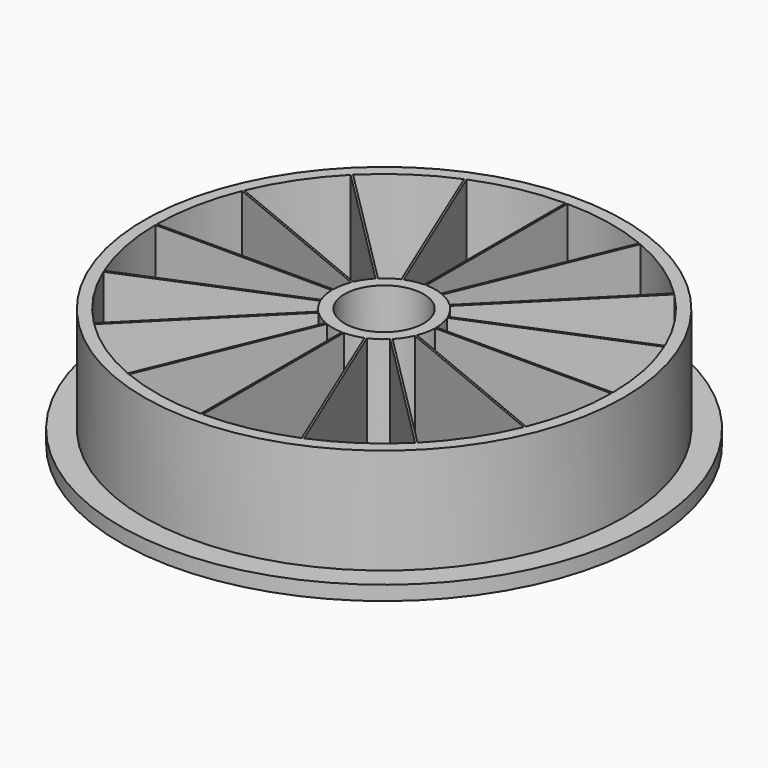
from build123d import *

# Parameters (mm, degrees)
F0_R     = 50
F0_R_2   = 8.25
F1_DEPTH = 22
F2_R     = 55
F3_DEPTH = 3


with BuildPart() as f1:
    # F0 (on Top) → F1 (new body)
    with BuildSketch(Plane.XY):
        Circle(F0_R)
        with BuildLine():
            Line((-33.445853, -33.728696), (-7.458661, -7.741504))
            ThreePointArc((-7.458661, -7.741504), (-5.97238, -8.938298), (-4.297911, -9.853449))
            Line((-4.297911, -9.853449), (-18.362078, -43.807352))
            ThreePointArc((-18.362078, -43.807352), (-26.389586, -39.494807), (-33.445853, -33.728696))
        make_face(mode=Mode.SUBTRACT)
        with BuildLine():
            ThreePointArc((-3.928359, -10.006523), (-2.097221, -10.543442), (-0.2, -10.748139))
            Line((-0.2, -10.748139), (-0.2, -47.499579))
            ThreePointArc((-0.2, -47.499579), (-9.26679, -46.587301), (-17.992526, -43.960425))
            Line((-17.992526, -43.960425), (-3.928359, -10.006523))
        make_face(mode=Mode.SUBTRACT)
        with BuildLine():
            ThreePointArc((-9.853449, -4.297911), (-8.938298, -5.97238), (-7.741504, -7.458661))
            Line((-7.741504, -7.458661), (-33.728696, -33.445853))
            ThreePointArc((-33.728696, -33.445853), (-39.494807, -26.389586), (-43.807352, -18.362078))
            Line((-43.807352, -18.362078), (-9.853449, -4.297911))
        make_face(mode=Mode.SUBTRACT)
        with BuildLine():
            Line((-47.499579, -0.2), (-10.748139, -0.2))
            ThreePointArc((-10.748139, -0.2), (-10.543442, -2.097221), (-10.006523, -3.928359))
            Line((-10.006523, -3.928359), (-43.960425, -17.992526))
            ThreePointArc((-43.960425, -17.992526), (-46.587301, -9.26679), (-47.499579, -0.2))
        make_face(mode=Mode.SUBTRACT)
        with BuildLine():
            Line((0.2, -47.499579), (0.2, -10.748139))
            ThreePointArc((0.2, -10.748139), (2.097221, -10.543442), (3.928359, -10.006523))
            Line((3.928359, -10.006523), (17.992526, -43.960425))
            ThreePointArc((17.992526, -43.960425), (9.26679, -46.587301), (0.2, -47.499579))
        make_face(mode=Mode.SUBTRACT)
        with BuildLine():
            ThreePointArc((4.297911, -9.853449), (5.97238, -8.938298), (7.458661, -7.741504))
            Line((7.458661, -7.741504), (33.445853, -33.728696))
            ThreePointArc((33.445853, -33.728696), (26.389586, -39.494807), (18.362078, -43.807352))
            Line((18.362078, -43.807352), (4.297911, -9.853449))
        make_face(mode=Mode.SUBTRACT)
        with BuildLine():
            Line((33.728696, -33.445853), (7.741504, -7.458661))
            ThreePointArc((7.741504, -7.458661), (8.938298, -5.97238), (9.853449, -4.297911))
            Line((9.853449, -4.297911), (43.807352, -18.362078))
            ThreePointArc((43.807352, -18.362078), (39.494807, -26.389586), (33.728696, -33.445853))
        make_face(mode=Mode.SUBTRACT)
        with BuildLine():
            ThreePointArc((10.006523, -3.928359), (10.543442, -2.097221), (10.748139, -0.2))
            Line((10.748139, -0.2), (47.499579, -0.2))
            ThreePointArc((47.499579, -0.2), (46.587301, -9.26679), (43.960425, -17.992526))
            Line((43.960425, -17.992526), (10.006523, -3.928359))
        make_face(mode=Mode.SUBTRACT)
        with BuildLine():
            ThreePointArc((-10.006523, 3.928359), (-10.543442, 2.097221), (-10.748139, 0.2))
            Line((-10.748139, 0.2), (-47.499579, 0.2))
            ThreePointArc((-47.499579, 0.2), (-46.587301, 9.26679), (-43.960425, 17.992526))
            Line((-43.960425, 17.992526), (-10.006523, 3.928359))
        make_face(mode=Mode.SUBTRACT)
        with BuildLine():
            Line((-33.728696, 33.445853), (-7.741504, 7.458661))
            ThreePointArc((-7.741504, 7.458661), (-8.938298, 5.97238), (-9.853449, 4.297911))
            Line((-9.853449, 4.297911), (-43.807352, 18.362078))
            ThreePointArc((-43.807352, 18.362078), (-39.494807, 26.389586), (-33.728696, 33.445853))
        make_face(mode=Mode.SUBTRACT)
        with BuildLine():
            ThreePointArc((-4.297911, 9.853449), (-5.97238, 8.938298), (-7.458661, 7.741504))
            Line((-7.458661, 7.741504), (-33.445853, 33.728696))
            ThreePointArc((-33.445853, 33.728696), (-26.389586, 39.494807), (-18.362078, 43.807352))
            Line((-18.362078, 43.807352), (-4.297911, 9.853449))
        make_face(mode=Mode.SUBTRACT)
        with BuildLine():
            ThreePointArc((-17.992526, 43.960425), (-9.26679, 46.587301), (-0.2, 47.499579))
            Line((-0.2, 47.499579), (-0.2, 10.748139))
            ThreePointArc((-0.2, 10.748139), (-2.097221, 10.543442), (-3.928359, 10.006523))
            Line((-3.928359, 10.006523), (-17.992526, 43.960425))
        make_face(mode=Mode.SUBTRACT)
        Circle(F0_R_2, mode=Mode.SUBTRACT)
        with BuildLine():
            Line((47.499579, 0.2), (10.748139, 0.2))
            ThreePointArc((10.748139, 0.2), (10.543442, 2.097221), (10.006523, 3.928359))
            Line((10.006523, 3.928359), (43.960425, 17.992526))
            ThreePointArc((43.960425, 17.992526), (46.587301, 9.26679), (47.499579, 0.2))
        make_face(mode=Mode.SUBTRACT)
        with BuildLine():
            ThreePointArc((9.853449, 4.297911), (8.938298, 5.97238), (7.741504, 7.458661))
            Line((7.741504, 7.458661), (33.728696, 33.445853))
            ThreePointArc((33.728696, 33.445853), (39.494807, 26.389586), (43.807352, 18.362078))
            Line((43.807352, 18.362078), (9.853449, 4.297911))
        make_face(mode=Mode.SUBTRACT)
        with BuildLine():
            ThreePointArc((3.928359, 10.006523), (2.097221, 10.543442), (0.2, 10.748139))
            Line((0.2, 10.748139), (0.2, 47.499579))
            ThreePointArc((0.2, 47.499579), (9.26679, 46.587301), (17.992526, 43.960425))
            Line((17.992526, 43.960425), (3.928359, 10.006523))
        make_face(mode=Mode.SUBTRACT)
        with BuildLine():
            Line((33.445853, 33.728696), (7.458661, 7.741504))
            ThreePointArc((7.458661, 7.741504), (5.97238, 8.938298), (4.297911, 9.853449))
            Line((4.297911, 9.853449), (18.362078, 43.807352))
            ThreePointArc((18.362078, 43.807352), (26.389586, 39.494807), (33.445853, 33.728696))
        make_face(mode=Mode.SUBTRACT)
    extrude(amount=F1_DEPTH)

    # F2 (on Top) → F3 (join)
    with BuildSketch(Plane.XY):
        Circle(F2_R)
    extrude(amount=-F3_DEPTH)


solid = f1.part
